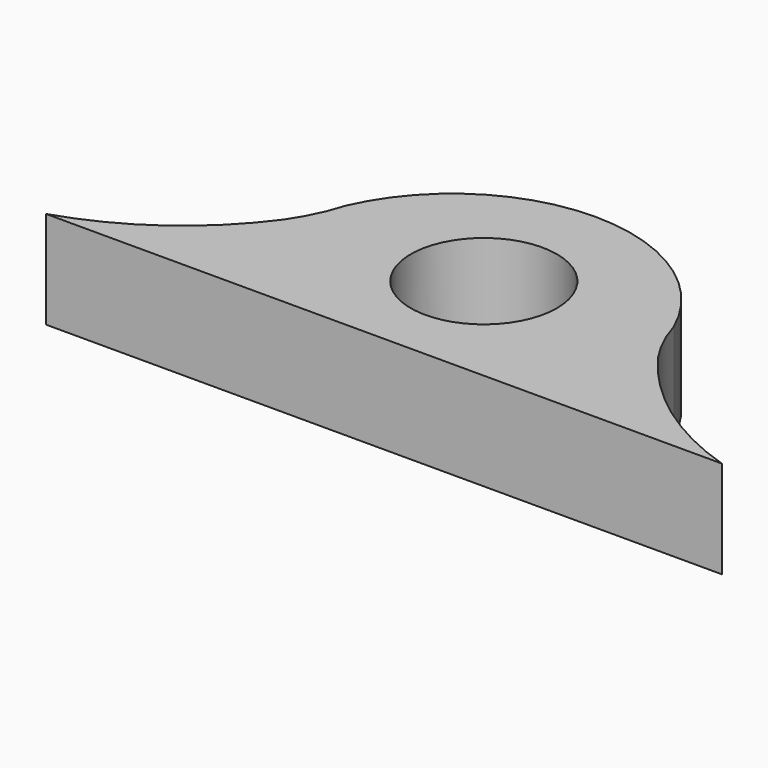
from build123d import *

# Parameters (mm, degrees)
F0_R     = 7.14375
F1_DEPTH = 9.525


with BuildPart() as f1:
    # F0 (on Top) → F1 (new body)
    with BuildSketch(Plane.XY):
        with BuildLine():
            Line((-38.052099, -3.421341), (2.587901, -3.421341))
            Line((2.587901, -3.421341), (7.667901, -3.421341))
            Line((7.667901, -3.421341), (15.287901, -3.421341))
            ThreePointArc((15.287901, -3.421341), (7.06746, 0.711777), (0.542674, 7.199108))
            ThreePointArc((0.542674, 7.199108), (-0.780314, 9.495418), (-1.726676, 11.970844))
            ThreePointArc((-1.726676, 11.970844), (-17.732099, 22.401259), (-33.737523, 11.970844))
            ThreePointArc((-33.737523, 11.970844), (-34.683884, 9.495418), (-36.006872, 7.199108))
            ThreePointArc((-36.006872, 7.199108), (-42.531659, 0.711777), (-50.752099, -3.421341))
            Line((-50.752099, -3.421341), (-43.132099, -3.421341))
            Line((-43.132099, -3.421341), (-38.052099, -3.421341))
        make_face()
        with Locations((-17.732099, 8.770659)):
            Circle(F0_R, mode=Mode.SUBTRACT)
    extrude(amount=F1_DEPTH)


solid = f1.part
